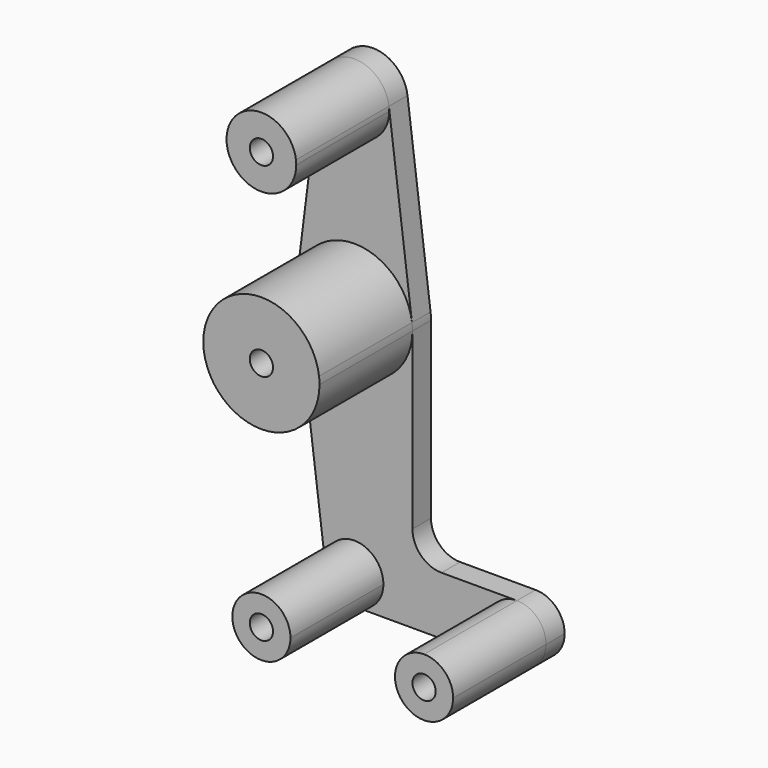
from build123d import *

# Parameters (mm, degrees)
F0_R     = 3.175
F1_DEPTH = 31.75
F2_DEPTH = 6.35


with BuildPart() as f1:
    # F0 (on Front) → F1 (new body)
    with BuildSketch(Plane.XZ):
        with BuildLine():
            ThreePointArc((9.525, 50.8), (9.506305, 51.396483), (9.450293, 51.990625))
            ThreePointArc((9.450293, 51.990625), (0, 60.325), (-9.450293, 51.990625))
            ThreePointArc((-9.450293, 51.990625), (-0.596483, 41.293695), (9.525, 50.8))
        make_face()
        with Locations((0, 50.8)):
            Circle(F0_R, mode=Mode.SUBTRACT)
        with BuildLine():
            ThreePointArc((7.9375, -63.5), (-0.497069, -55.578079), (-7.875244, -64.492187))
            ThreePointArc((-7.875244, -64.492187), (-5.250163, -69.453125), (0, -71.4375))
            ThreePointArc((0, -71.4375), (5.61266, -69.11266), (7.9375, -63.5))
        make_face()
        with Locations((0, -63.5)):
            Circle(F0_R, mode=Mode.SUBTRACT)
        with BuildLine():
            ThreePointArc((52.3875, -63.5), (50.06266, -57.88734), (44.45, -55.5625))
            ThreePointArc((44.45, -55.5625), (36.5125, -63.5), (44.45, -71.4375))
            ThreePointArc((44.45, -71.4375), (50.06266, -69.11266), (52.3875, -63.5))
        make_face()
        with Locations((44.45, -63.5)):
            Circle(F0_R, mode=Mode.SUBTRACT)
        with BuildLine():
            ThreePointArc((-15.750488, -1.984375), (0.994139, -15.843841), (15.875, 0))
            ThreePointArc((15.875, 0), (15.843841, 0.994139), (15.750488, 1.984375))
            ThreePointArc((15.750488, 1.984375), (0, 15.875), (-15.750488, 1.984375))
            ThreePointArc((-15.750488, 1.984375), (-15.875, 0), (-15.750488, -1.984375))
        make_face()
        Circle(F0_R, mode=Mode.SUBTRACT)
    extrude(amount=F1_DEPTH)


with BuildPart() as f2:
    # F0 (on Front) → F2 (new body)
    with BuildSketch(Plane.XZ):
        with BuildLine():
            ThreePointArc((9.525, 50.8), (9.506305, 51.396483), (9.450293, 51.990625))
            ThreePointArc((9.450293, 51.990625), (0, 60.325), (-9.450293, 51.990625))
            ThreePointArc((-9.450293, 51.990625), (-0.596483, 41.293695), (9.525, 50.8))
        make_face()
        with Locations((0, 50.8)):
            Circle(F0_R, mode=Mode.SUBTRACT)
        with BuildLine():
            ThreePointArc((-15.750488, 1.984375), (0, 15.875), (15.750488, 1.984375))
            Line((15.750488, 1.984375), (9.450293, 51.990625))
            ThreePointArc((9.450293, 51.990625), (9.506305, 51.396483), (9.525, 50.8))
            ThreePointArc((9.525, 50.8), (-0.596483, 41.293695), (-9.450293, 51.990625))
            Line((-9.450293, 51.990625), (-15.750488, 1.984375))
        make_face()
        with BuildLine():
            ThreePointArc((-15.750488, -1.984375), (0.994139, -15.843841), (15.875, 0))
            ThreePointArc((15.875, 0), (15.843841, 0.994139), (15.750488, 1.984375))
            ThreePointArc((15.750488, 1.984375), (0, 15.875), (-15.750488, 1.984375))
            ThreePointArc((-15.750488, 1.984375), (-15.875, 0), (-15.750488, -1.984375))
        make_face()
        Circle(F0_R, mode=Mode.SUBTRACT)
        with BuildLine():
            Line((15.875, -47.625), (15.875, 0))
            ThreePointArc((15.875, 0), (0.994139, -15.843841), (-15.750488, -1.984375))
            Line((-15.750488, -1.984375), (-7.875244, -64.492187))
            ThreePointArc((-7.875244, -64.492187), (-0.497069, -55.578079), (7.9375, -63.5))
            ThreePointArc((7.9375, -63.5), (5.61266, -69.11266), (0, -71.4375))
            Line((0, -71.4375), (44.45, -71.4375))
            ThreePointArc((44.45, -71.4375), (36.5125, -63.5), (44.45, -55.5625))
            Line((44.45, -55.5625), (23.8125, -55.5625))
            ThreePointArc((23.8125, -55.5625), (18.19984, -53.23766), (15.875, -47.625))
        make_face()
        with BuildLine():
            ThreePointArc((7.9375, -63.5), (-0.497069, -55.578079), (-7.875244, -64.492187))
            ThreePointArc((-7.875244, -64.492187), (-5.250163, -69.453125), (0, -71.4375))
            ThreePointArc((0, -71.4375), (5.61266, -69.11266), (7.9375, -63.5))
        make_face()
        with Locations((0, -63.5)):
            Circle(F0_R, mode=Mode.SUBTRACT)
        with BuildLine():
            ThreePointArc((52.3875, -63.5), (50.06266, -57.88734), (44.45, -55.5625))
            ThreePointArc((44.45, -55.5625), (36.5125, -63.5), (44.45, -71.4375))
            ThreePointArc((44.45, -71.4375), (50.06266, -69.11266), (52.3875, -63.5))
        make_face()
        with Locations((44.45, -63.5)):
            Circle(F0_R, mode=Mode.SUBTRACT)
    extrude(amount=-F2_DEPTH)


solid = Compound([f1.part, f2.part])
